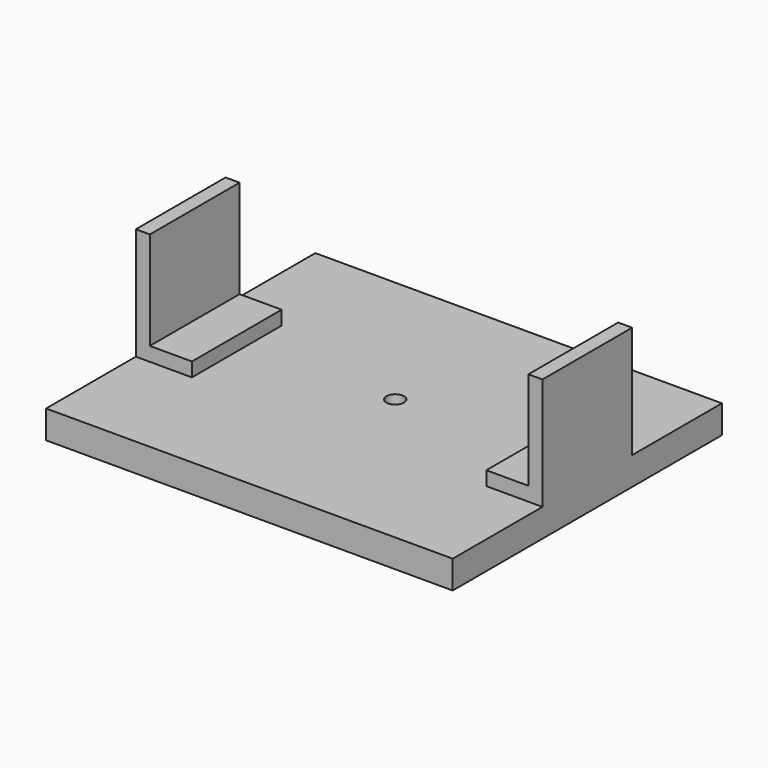
from build123d import *

# Parameters (mm, degrees)
F0_W      = 184.15
F0_H      = 152.4
F1_DEPTH  = 12.7
F3_R      = 3.96875
F4_DEPTH  = 25.4
F5_W      = 25.4
F5_H      = 50.8
F6_DEPTH  = 6.35
F7_W      = 6.35
F7_H      = 50.8
F8_DEPTH  = 44.45
F9_W      = 6.35
F9_H      = 50.8
F10_DEPTH = 44.45


with BuildPart() as f1:
    # F0 (on Top) → F1 (new body)
    with BuildSketch(Plane.XY):
        with Locations((92.075, 76.2)):
            Rectangle(F0_W, F0_H)
    extrude(amount=F1_DEPTH)

    # F3 (on face) → F4 (cut)
    with BuildSketch(Plane(origin=(0, 0, 0), x_dir=(1, 0, 0), z_dir=(0, 0, -1))):
        with Locations((92.075, -82.55)):
            Circle(F3_R)
    extrude(amount=-F4_DEPTH, mode=Mode.SUBTRACT)

    # F5 (on face) → F6 (join)
    with BuildSketch(Plane.XY.offset(12.7)):
        with Locations((12.7, 76.2)):
            Rectangle(F5_W, F5_H)
        with Locations((171.45, 76.2)):
            Rectangle(F5_W, F5_H)
    extrude(amount=F6_DEPTH)

    # F7 (on face) → F8 (join)
    with BuildSketch(Plane.XY.offset(19.05)):
        with Locations((3.175, 76.2)):
            Rectangle(F7_W, F7_H)
    extrude(amount=F8_DEPTH)

    # F9 (on face) → F10 (join)
    with BuildSketch(Plane.XY.offset(19.05)):
        with Locations((180.975, 76.2)):
            Rectangle(F9_W, F9_H)
    extrude(amount=F10_DEPTH)


solid = f1.part
